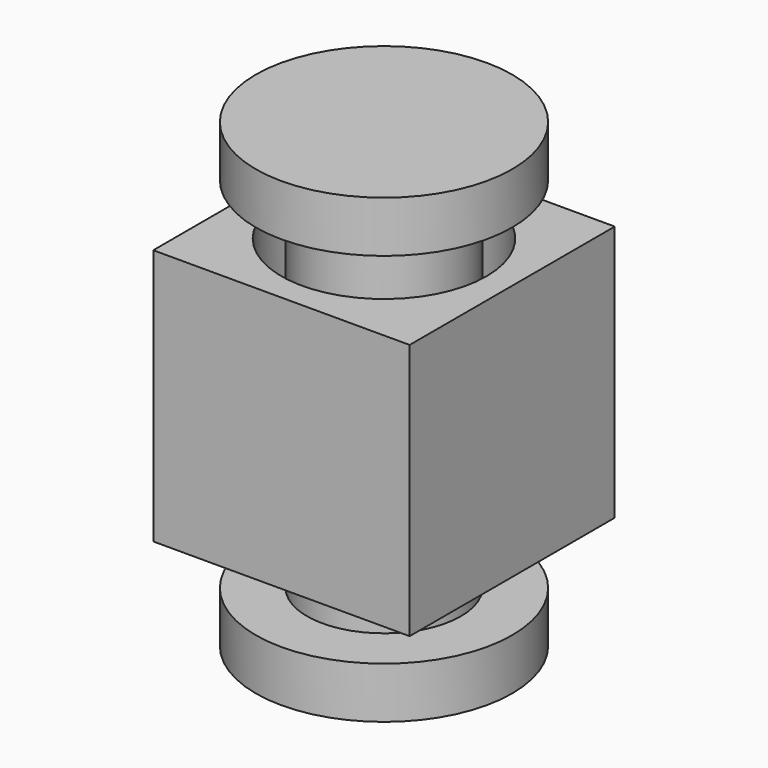
from build123d import *

# Parameters (mm, degrees)
F0_W      = 5
F0_H      = 5
F1_DEPTH  = 5
F2_R      = 2
F3_DEPTH  = 25
F4_R      = 1.5
F5_DEPTH  = 6
F6_DEPTH  = 1
F7_R      = 2.5
F8_DEPTH  = 1
F9_R      = 2.5
F10_DEPTH = 1


with BuildPart() as f1:
    # F0 (on Top) → F1 (new body)
    with BuildSketch(Plane.XY):
        with Locations((-58.11361, 11.802363)):
            Rectangle(F0_W, F0_H)
    extrude(amount=F1_DEPTH)

    # F2 (on face) → F3 (cut)
    with BuildSketch(Plane.XY.offset(5)):
        with Locations((-58.11361, 11.802363)):
            Circle(F2_R)
    extrude(amount=-F3_DEPTH, mode=Mode.SUBTRACT)


with BuildPart() as f5:
    # F4 (on Top) → F5 (new body)
    with BuildSketch(Plane.XY):
        with Locations((-58.11361, 11.802363)):
            Circle(F4_R)
    extrude(amount=F5_DEPTH)

    # F4 (on Top) → F6 (join)
    with BuildSketch(Plane.XY):
        with Locations((-58.11361, 11.802363)):
            Circle(F4_R)
    extrude(amount=-F6_DEPTH)

    # F7 (on face) → F8 (join)
    with BuildSketch(Plane.XY.offset(6)):
        with Locations((-58.11361, 11.802363)):
            Circle(F7_R)
    extrude(amount=F8_DEPTH)

    # F9 (on face) → F10 (join)
    with BuildSketch(Plane(origin=(0, 0, -1), x_dir=(1, 0, 0), z_dir=(0, 0, -1))):
        with Locations((-58.11361, -11.802363)):
            Circle(F9_R)
    extrude(amount=F10_DEPTH)


solid = Compound([f1.part, f5.part])
